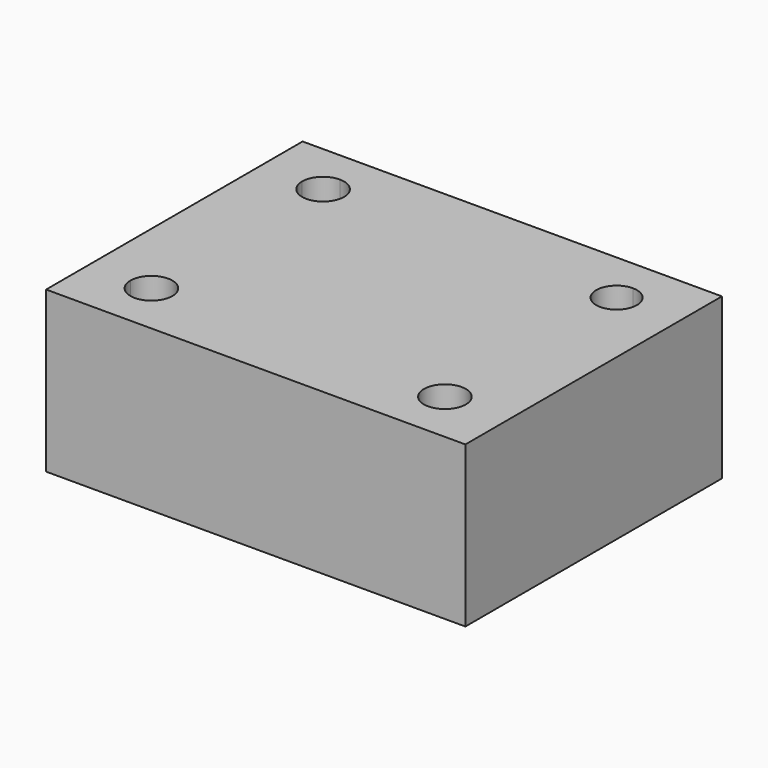
from build123d import *

# Parameters (mm, degrees)
F0_W     = 34
F0_H     = 26
F1_DEPTH = 13
F3_DEPTH = 25


with BuildPart() as f1:
    # F0 (on Top) → F1 (new body)
    with BuildSketch(Plane.XY):
        with Locations((17, 13)):
            Rectangle(F0_W, F0_H)
    extrude(amount=F1_DEPTH)

    # F2 (on face) → F3 (cut)
    with BuildSketch(Plane.XY.offset(13)):
        with BuildLine():
            Line((5.1, 21.7), (3.4, 21.7))
            ThreePointArc((3.4, 21.7), (5.1, 20), (6.8, 21.7))
            ThreePointArc((6.8, 21.7), (6.302082, 22.902082), (5.1, 23.4))
            Line((5.1, 23.4), (5.1, 21.7))
        make_face()
        with BuildLine():
            ThreePointArc((28.9, 23.35), (27.733274, 20.533274), (30.55, 21.7))
            Line((30.55, 21.7), (28.9, 21.7))
            Line((28.9, 21.7), (28.9, 23.35))
        make_face()
        with BuildLine():
            ThreePointArc((30.6, 4.3), (27.697918, 5.502082), (28.9, 2.6))
            Line((28.9, 2.6), (28.9, 4.3))
            Line((28.9, 4.3), (30.6, 4.3))
        make_face()
        with BuildLine():
            Line((5.1, 4.3), (5.1, 2.6))
            ThreePointArc((5.1, 2.6), (6.302082, 3.097918), (6.8, 4.3))
            ThreePointArc((6.8, 4.3), (5.1, 6), (3.4, 4.3))
            Line((3.4, 4.3), (5.1, 4.3))
        make_face()
        with BuildLine():
            ThreePointArc((3.4, 4.3), (3.897918, 3.097918), (5.1, 2.6))
            Line((5.1, 2.6), (5.1, 4.3))
            Line((5.1, 4.3), (3.4, 4.3))
        make_face()
        with BuildLine():
            Line((28.9, 4.3), (28.9, 2.6))
            ThreePointArc((28.9, 2.6), (30.102082, 3.097918), (30.6, 4.3))
            Line((30.6, 4.3), (28.9, 4.3))
        make_face()
        with BuildLine():
            Line((28.9, 21.7), (30.55, 21.7))
            ThreePointArc((30.55, 21.7), (30.066726, 22.866726), (28.9, 23.35))
            Line((28.9, 23.35), (28.9, 21.7))
        make_face()
        with BuildLine():
            ThreePointArc((5.1, 23.4), (3.897918, 22.902082), (3.4, 21.7))
            Line((3.4, 21.7), (5.1, 21.7))
            Line((5.1, 21.7), (5.1, 23.4))
        make_face()
    extrude(amount=-F3_DEPTH, mode=Mode.SUBTRACT)


solid = f1.part
